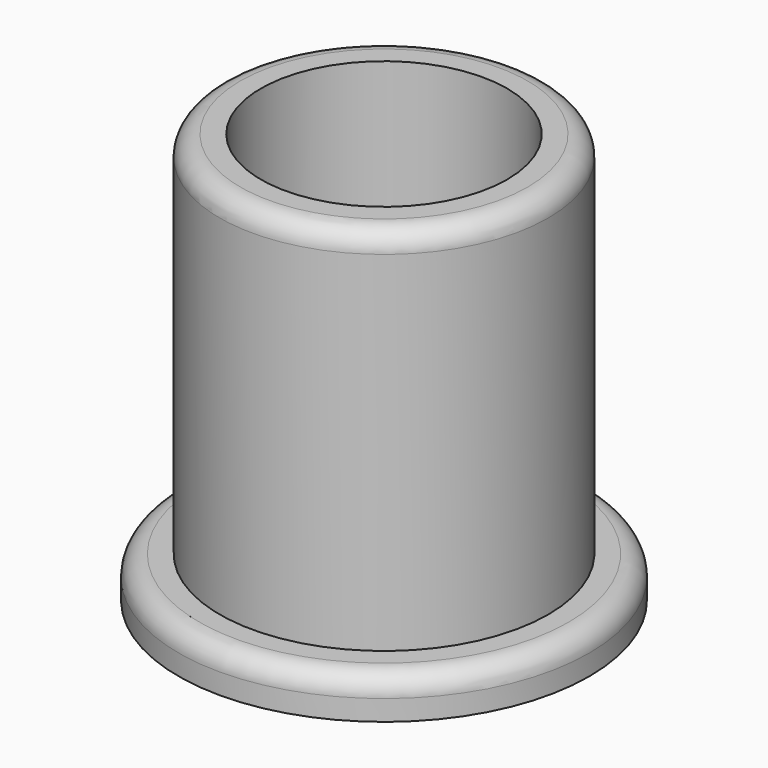
from build123d import *

# Parameters (mm, degrees)
F0_R     = 50
F1_DEPTH = 10
F2_R     = 40
F2_R_2   = 30
F3_DEPTH = 100
F4_R     = 5
F4_2_R   = 5
F6_D     = 20
F6_DEPTH = 40.001


with BuildPart() as f1:
    # F0 (on Top) → F1 (new body)
    with BuildSketch(Plane.XY):
        Circle(F0_R)
    extrude(amount=F1_DEPTH)

    # F4#2
    f4_2_edges = [f1.edges().sort_by_distance(p)[0] for p in [
        (-50, 0, 10),
    ]]
    fillet(f4_2_edges, radius=F4_2_R)


with BuildPart() as f3:
    # F2 (on Top) → F3 (new body)
    with BuildSketch(Plane.XY):
        Circle(F2_R)
        Circle(F2_R_2, mode=Mode.SUBTRACT)
    extrude(amount=F3_DEPTH)

    # F4
    f4_edges = [f3.edges().sort_by_distance(p)[0] for p in [
        (-40, 0, 100),
    ]]
    fillet(f4_edges, radius=F4_R)

    # F6 (through all, one way)
    with BuildSketch(Plane.XZ):
        with Locations((0, 42.537920177)):
            Circle(F6_D / 2)
    extrude(amount=-F6_DEPTH, mode=Mode.SUBTRACT)


solid = Compound([f1.part, f3.part])
